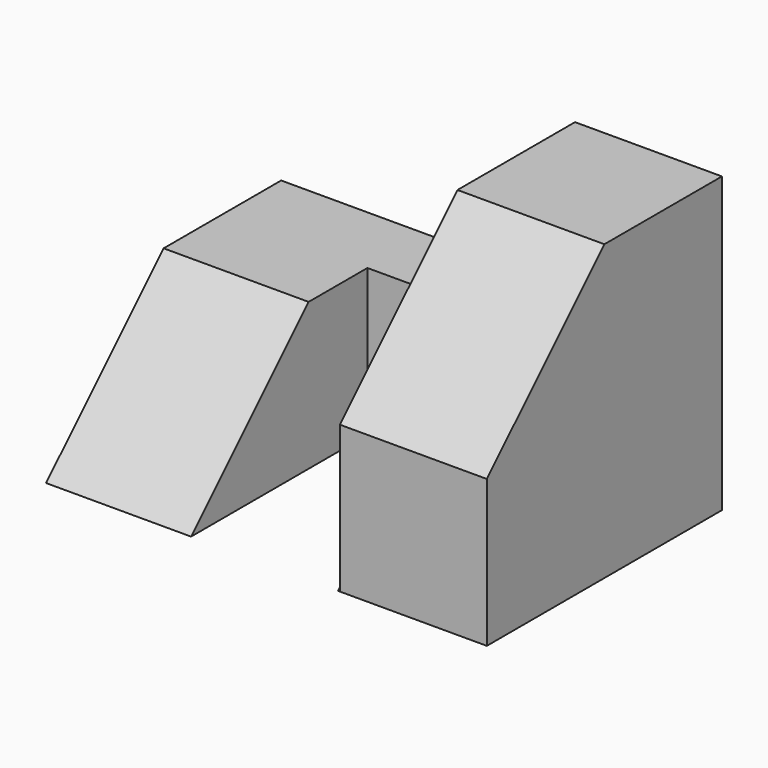
from build123d import *

# Parameters (mm, degrees)
F0_W     = 38.1
F0_H     = 25.4
F1_DEPTH = 12.7
F3_DEPTH = 25.401
F5_DEPTH = 12.8647734687
F6_W     = 25.4
F6_H     = 12.7
F7_DEPTH = 25.4
F9_DEPTH = 25.4


with BuildPart() as f1:
    # F0 (on Front) → F1 (new body, symmetric)
    with BuildSketch(Plane.XZ):
        with Locations((19.05, 12.7)):
            Rectangle(F0_W, F0_H)
    extrude(amount=F1_DEPTH, both=True)

    # F2 (on face) → F3 (cut, through all)
    with BuildSketch(Plane.XY.offset(25.4)):
        Polygon((12.5352265313, -12.7), (19.05, -12.7), (25.2352265313, -12.7), (25.2352265313, 6.35), (12.5352265313, 6.35), align=None)
    extrude(amount=-F3_DEPTH, mode=Mode.SUBTRACT)

    # F4 (on face) → F5 (cut, through all)
    with BuildSketch(Plane.YZ.offset(38.1)):
        Polygon((0, 25.4), (-12.7, 25.4), (-12.7, 12.7), align=None)
    extrude(amount=-F5_DEPTH, mode=Mode.SUBTRACT)

    # F6 (on face) → F7 (cut)
    with BuildSketch(Plane(origin=(0, 0, 0), x_dir=(0, -1, 0), z_dir=(-1, 0, 0))):
        with Locations((0, 19.05)):
            Rectangle(F6_W, F6_H)
    extrude(amount=-F7_DEPTH, mode=Mode.SUBTRACT)

    # F8 (on face) → F9 (cut)
    with BuildSketch(Plane(origin=(0, 0, 0), x_dir=(0, -1, 0), z_dir=(-1, 0, 0))):
        Polygon((0, 12.7), (12.7, 0), (12.7, 12.7), align=None)
    extrude(amount=-F9_DEPTH, mode=Mode.SUBTRACT)


solid = f1.part
